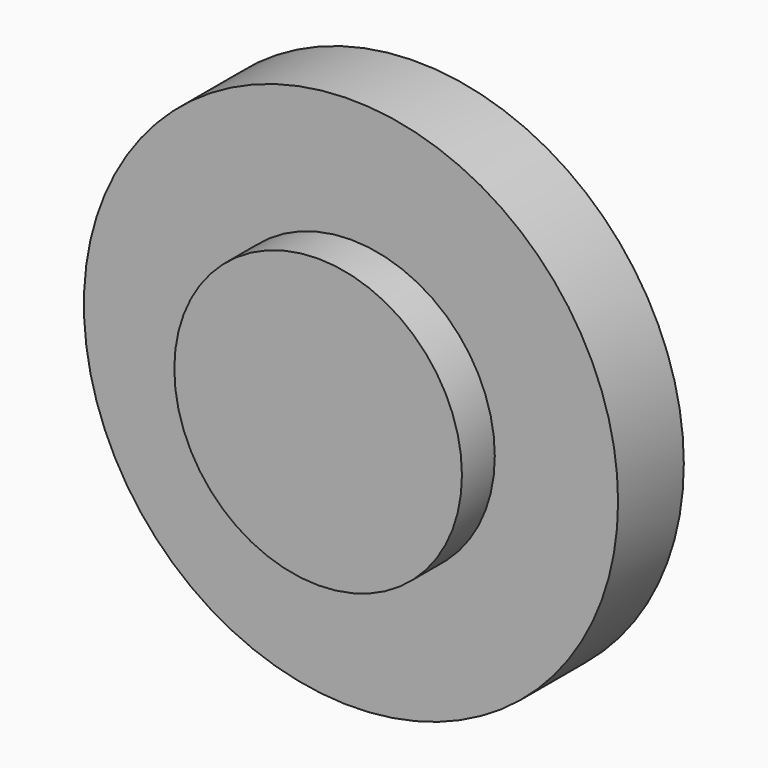
from build123d import *

# Parameters (mm, degrees)
F0_R     = 6.5
F0_R_2   = 3.5
F1_DEPTH = 2
F2_DEPTH = 1


with BuildPart() as f1:
    # F0 (on Front) → F1 (new body)
    with BuildSketch(Plane.XZ):
        Circle(F0_R)
        Circle(F0_R_2, mode=Mode.SUBTRACT)
        Circle(F0_R_2)
    extrude(amount=-F1_DEPTH)


with BuildPart() as f2:
    # F0 (on Front) → F2 (new body)
    with BuildSketch(Plane.XZ):
        Circle(F0_R_2)
    extrude(amount=F2_DEPTH)


solid = Compound([f1.part, f2.part])
